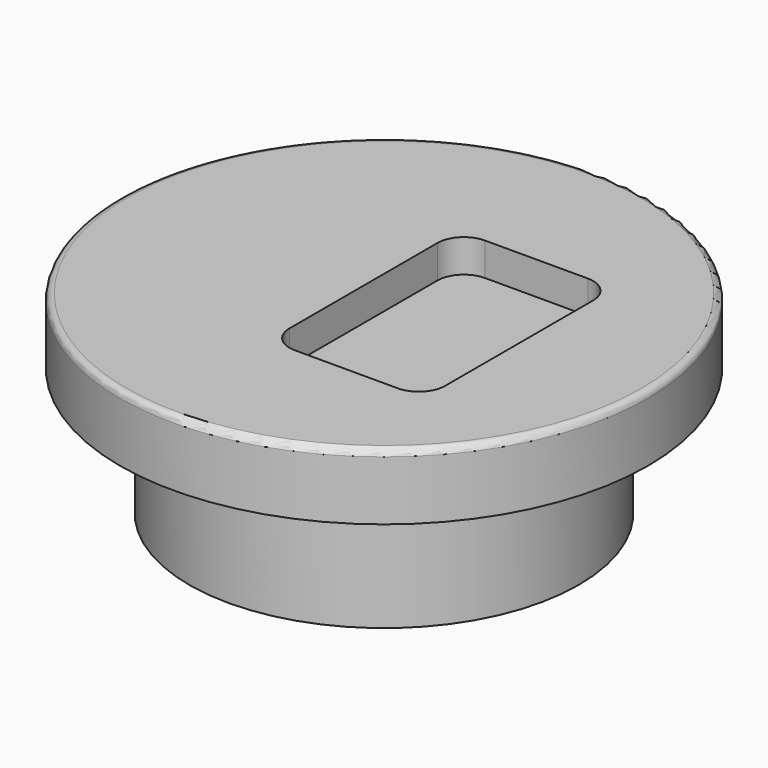
from build123d import *

# Parameters (mm, degrees)
SKETCH_R     = 40
PAD_DEPTH    = 10
FILLET_R     = 1
SKETCH001_R  = 29.5
PAD001_DEPTH = 19.3
POCKET_DEPTH = 5


with BuildPart() as part:
    # Sketch → Pad (new body)
    with BuildSketch(Plane.XY):
        Circle(SKETCH_R)
    extrude(amount=PAD_DEPTH)

    # Fillet
    fillet_edges = [part.edges().sort_by_distance(p)[0] for p in [
        (-40, 0, 10),
    ]]
    fillet(fillet_edges, radius=FILLET_R)

    # Sketch001 → Pad001 (new body)
    with BuildSketch(Plane(origin=(0, 0, 0), x_dir=(1, 0, 0), z_dir=(0, 0, -1))):
        Circle(SKETCH001_R)
    extrude(amount=PAD001_DEPTH)

    # Sketch002 → Pocket (cut)
    with BuildSketch(Plane.XY.offset(10)):
        with BuildLine():
            Line((0.9, 18), (16.468855, 18))
            ThreePointArc((20.468855, 14), (19.297282, 16.828427), (16.468855, 18))
            Line((20.468855, 14), (20.468855, -14))
            ThreePointArc((16.468855, -18), (19.297282, -16.828427), (20.468855, -14))
            Line((16.468855, -18), (0.9, -18))
            ThreePointArc((-3.1, -14), (-1.928427, -16.828427), (0.9, -18))
            Line((-3.1, -14), (-3.1, 14))
            ThreePointArc((0.9, 18), (-1.928427, 16.828427), (-3.1, 14))
        make_face()
    extrude(amount=-POCKET_DEPTH, mode=Mode.SUBTRACT)


solid = part.part
